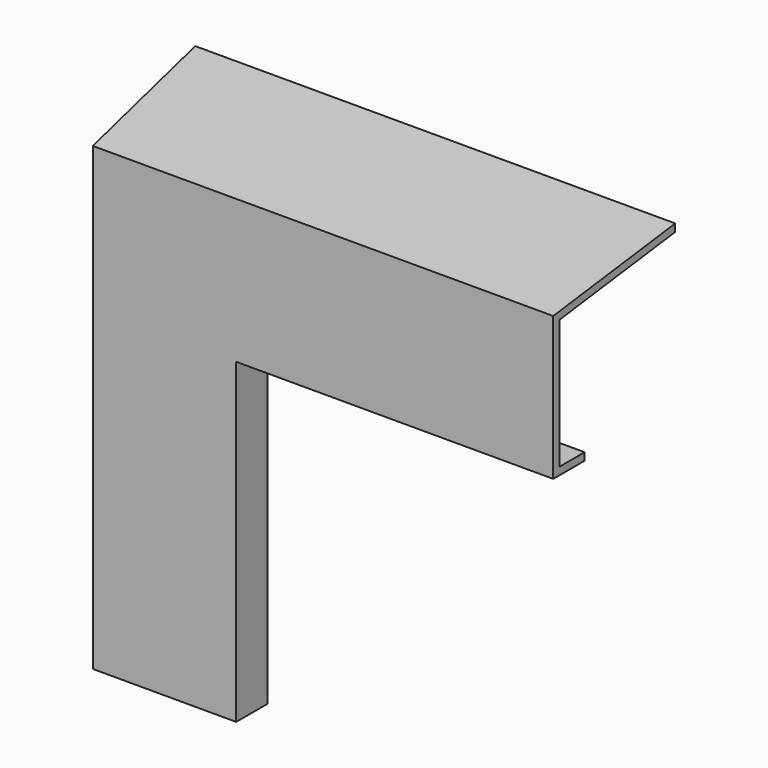
from build123d import *

# Parameters (mm, degrees)
PAD_DEPTH       = 20.2
PAD_TAPER       = -7.3
POCKET_DEPTH    = 20.2
THICKNESS_T     = -1
POCKET001_DEPTH = 1
POCKET002_DEPTH = 1
POCKET003_DEPTH = 15


with BuildPart() as part:
    # Sketch → Pad (new body)
    with BuildSketch(Plane.XZ):
        Polygon((-30.5, -30.5), (-30.5, 30.5), (30.5, 30.5), (30.5, 11.5), (-11.5, 11.5), (-11.5, -30.5), align=None)
    extrude(amount=-PAD_DEPTH, taper=PAD_TAPER)

    # Sketch001 (on Face7 of Pad) → Pocket (cut)
    with BuildSketch(Plane.XZ):
        Polygon((-30.5, -30.5), (-11.5, -30.5), (-11.5, 11.5), (30.5, 11.5), (30.5, 30.5), (30.5, 40.5), (40.5, 40.5), (40.5, -40.5), (-40.5, -40.5), (-40.5, -30.5), align=None)
    extrude(amount=-POCKET_DEPTH, mode=Mode.SUBTRACT)

    # Thickness
    thickness_openings = [part.faces().sort_by_distance(p)[0] for p in [
        (-32.188414, 20.2, 1.29384),
    ]]
    offset(amount=THICKNESS_T, openings=thickness_openings, kind=Kind.INTERSECTION)

    # Sketch002 (on Face2 of Thickness) → Pocket001 (cut)
    with BuildSketch(Plane(origin=(0, 0, -30.5), x_dir=(1, 0, 0), z_dir=(0, 0, -1))):
        Polygon((-32.08768, -20.2), (-29.628103, -1), (-12.5, -1), (-12.5, -20.2), align=None)
    extrude(amount=-POCKET001_DEPTH, mode=Mode.SUBTRACT)

    # Sketch003 (on Face6 of Thickness) → Pocket002 (cut)
    with BuildSketch(Plane.YZ.offset(30.5)):
        Polygon((20.2, 32.08768), (1, 29.628103), (1, 12.5), (20.2, 12.5), align=None)
    extrude(amount=-POCKET002_DEPTH, mode=Mode.SUBTRACT)

    # Pocket002 Face9 → Pocket003 (cut)
    with BuildSketch(Plane(origin=(-1.376471, 20.2, 1.376471), x_dir=(1, 0, 0), z_dir=(0, 1, 0))):
        Polygon((31.876471, -11.123529), (31.876471, -10.123529), (-10.123529, -10.123529), (-10.123529, 31.876471), (-11.123529, 31.876471), (-11.123529, 30.876471), (-11.123529, -11.123529), (30.876471, -11.123529), align=None)
    extrude(amount=-POCKET003_DEPTH, mode=Mode.SUBTRACT)


solid = part.part
